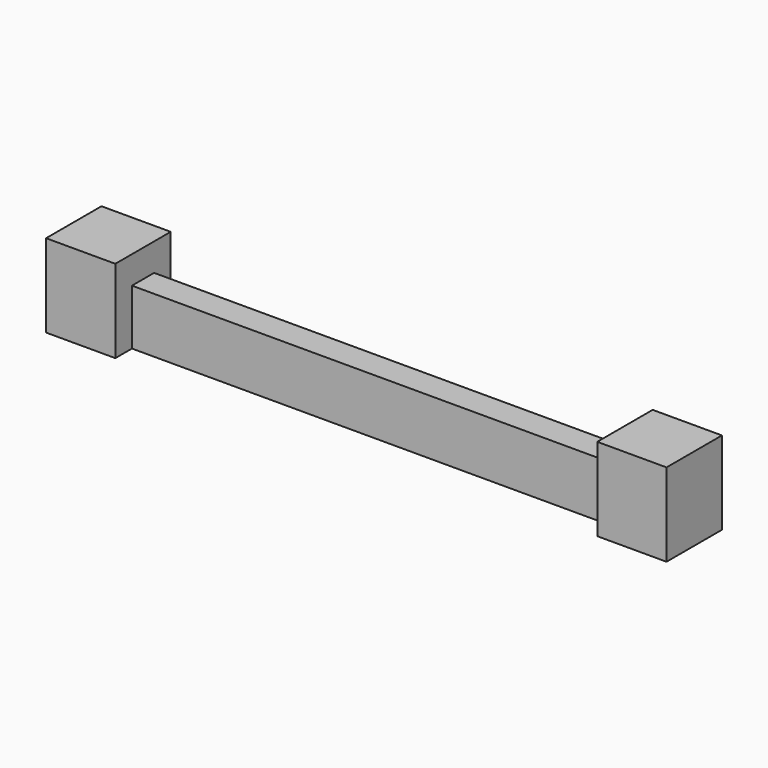
from build123d import *

# Parameters (mm, degrees)
F1_DEPTH = 400
F2_W     = 500
F2_H     = 500
F3_DEPTH = 200


with BuildPart() as f1:
    # F0 (on Top) → F1 (new body)
    with BuildSketch(Plane.XY):
        Polygon((-1041.4757, -106.395559), (-1541.4757, -106.395559), (-1541.4757, -606.395559), (-1041.4757, -606.395559), (-1041.4757, -456.395559), (2438.5243, -456.395559), (2438.5243, -606.395559), (2938.5243, -606.395559), (2938.5243, -106.395559), (2438.5243, -106.395559), (2438.5243, -256.395559), (-1041.4757, -256.395559), align=None)
    extrude(amount=F1_DEPTH)

    # F2 (on face) → F3 (join)
    with BuildSketch(Plane.XY.offset(400)):
        with Locations((-1291.4757, -356.395559)):
            Rectangle(F2_W, F2_H)
        with Locations((2688.5243, -356.395559)):
            Rectangle(F2_W, F2_H)
    extrude(amount=F3_DEPTH)


solid = f1.part
